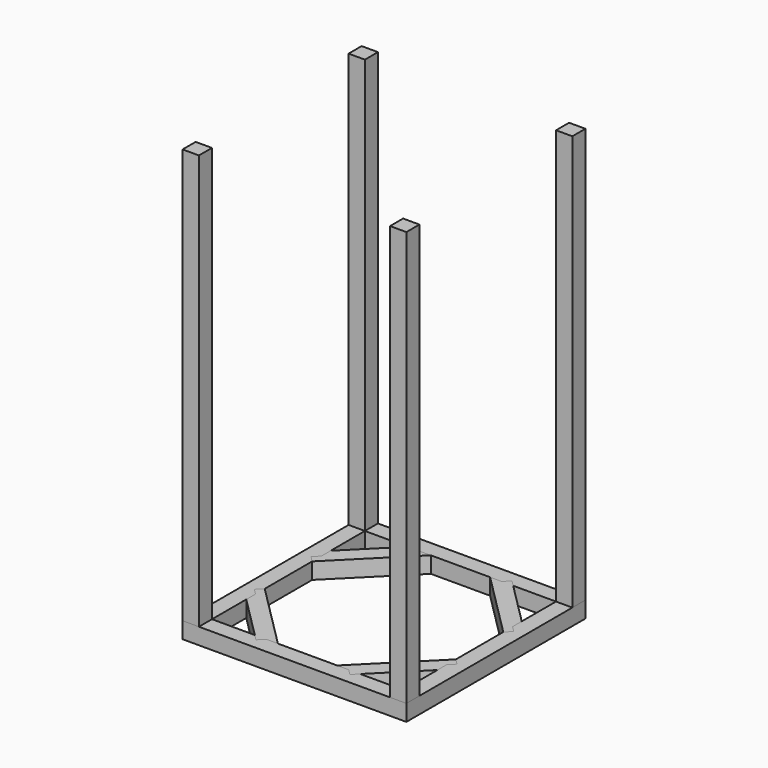
from build123d import *

# Parameters (mm, degrees)
F1_DEPTH  = 88.9
F2_DEPTH  = 88.9
F3_DEPTH  = 88.9
F4_DEPTH  = 88.9
F5_DEPTH  = 88.9
F6_DEPTH  = 88.9
F7_DEPTH  = 88.9
F8_DEPTH  = 88.9
F10_DEPTH = 2260.6
F11_DEPTH = 2260.6
F9_W      = 88.9
F9_H      = 88.9
F12_DEPTH = 2260.6
F13_DEPTH = 2260.6


with BuildPart() as f1:
    # F0 (on Top) → F1 (new body)
    with BuildSketch(Plane.XY):
        Polygon((520.7, 520.7), (609.6, 609.6), (-609.6, 609.6), (-520.7, 520.7), (-287.213341, 520.7), (-255.782444, 552.130896), (-224.351548, 520.7), (-161.489755, 520.7), (161.489755, 520.7), (224.351548, 520.7), (255.782444, 552.130896), (287.213341, 520.7), align=None)
    extrude(amount=F1_DEPTH)


with BuildPart() as f2:
    # F0 (on Top) → F2 (new body)
    with BuildSketch(Plane.XY):
        Polygon((-520.7, 520.7), (-609.6, 609.6), (-609.6, -609.6), (-520.7, -520.7), (-520.7, -287.213341), (-520.7, -224.351548), (-552.130896, -192.920652), (-520.7, -161.489755), (-520.7, 161.489755), (-552.130896, 192.920652), (-520.7, 224.351548), (-520.7, 287.213341), align=None)
    extrude(amount=F2_DEPTH)


with BuildPart() as f3:
    # F0 (on Top) → F3 (new body)
    with BuildSketch(Plane.XY):
        Polygon((-609.6, -609.6), (609.6, -609.6), (520.7, -520.7), (287.213341, -520.7), (255.782444, -552.130896), (224.351548, -520.7), (161.489755, -520.7), (-161.489755, -520.7), (-224.351548, -520.7), (-255.782444, -552.130896), (-287.213341, -520.7), (-520.7, -520.7), align=None)
    extrude(amount=F3_DEPTH)


with BuildPart() as f4:
    # F0 (on Top) → F4 (new body)
    with BuildSketch(Plane.XY):
        Polygon((609.6, -609.6), (609.6, 609.6), (520.7, 520.7), (520.7, 287.213341), (520.7, 224.351548), (552.130896, 192.920652), (520.7, 161.489755), (520.7, -161.489755), (552.130896, -192.920652), (520.7, -224.351548), (520.7, -287.213341), (520.7, -520.7), align=None)
    extrude(amount=F4_DEPTH)


with BuildPart() as f5:
    # F0 (on Top) → F5 (new body)
    with BuildSketch(Plane.XY):
        Polygon((-287.213341, 520.7), (-520.7, 287.213341), (-520.7, 224.351548), (-552.130896, 192.920652), (-520.7, 161.489755), (-161.489755, 520.7), (-224.351548, 520.7), (-255.782444, 552.130896), align=None)
    extrude(amount=F5_DEPTH)


with BuildPart() as f6:
    # F0 (on Top) → F6 (new body)
    with BuildSketch(Plane.XY):
        Polygon((520.7, 287.213341), (287.213341, 520.7), (255.782444, 552.130896), (224.351548, 520.7), (161.489755, 520.7), (520.7, 161.489755), (552.130896, 192.920652), (520.7, 224.351548), align=None)
    extrude(amount=F6_DEPTH)


with BuildPart() as f7:
    # F0 (on Top) → F7 (new body)
    with BuildSketch(Plane.XY):
        Polygon((-520.7, -287.213341), (-287.213341, -520.7), (-255.782444, -552.130896), (-224.351548, -520.7), (-161.489755, -520.7), (-520.7, -161.489755), (-552.130896, -192.920652), (-520.7, -224.351548), align=None)
    extrude(amount=F7_DEPTH)


with BuildPart() as f8:
    # F0 (on Top) → F8 (new body)
    with BuildSketch(Plane.XY):
        Polygon((255.782444, -552.130896), (287.213341, -520.7), (520.7, -287.213341), (520.7, -224.351548), (552.130896, -192.920652), (520.7, -161.489755), (161.489755, -520.7), (224.351548, -520.7), align=None)
    extrude(amount=F8_DEPTH)


with BuildPart() as f10:
    # F9 (on face) → F10 (new body)
    with BuildSketch(Plane.XY.offset(88.9)):
        Polygon((-520.7, 609.6), (-609.6, 609.6), (-520.7, 520.7), align=None)
        Polygon((-520.7, 520.7), (-609.6, 609.6), (-609.6, 520.7), align=None)
    extrude(amount=F10_DEPTH)


with BuildPart() as f11:
    # F9 (on face) → F11 (new body)
    with BuildSketch(Plane.XY.offset(88.9)):
        Polygon((609.6, 609.6), (520.7, 609.6), (520.7, 520.7), align=None)
        Polygon((609.6, 520.7), (609.6, 609.6), (520.7, 520.7), align=None)
    extrude(amount=F11_DEPTH)


with BuildPart() as f12:
    # F9 (on face) → F12 (new body)
    with BuildSketch(Plane.XY.offset(88.9)):
        with Locations((-565.15, -565.15)):
            Rectangle(F9_W, F9_H)
    extrude(amount=F12_DEPTH)


with BuildPart() as f13:
    # F9 (on face) → F13 (new body)
    with BuildSketch(Plane.XY.offset(88.9)):
        with Locations((565.15, -565.15)):
            Rectangle(F9_W, F9_H)
    extrude(amount=F13_DEPTH)


solid = Compound([f1.part, f2.part, f3.part, f4.part, f5.part, f6.part, f7.part, f8.part, f10.part, f11.part, f12.part, f13.part])
